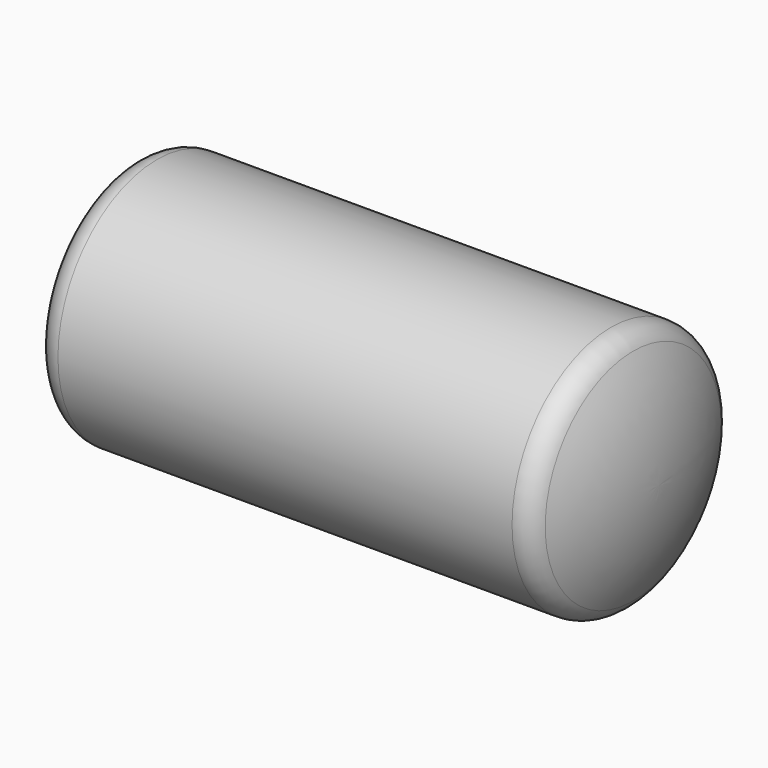
from build123d import *


with BuildPart() as f1:
    # F0 (on Top) → F1 (revolve)
    with BuildSketch(Plane.XY):
        with BuildLine():
            Line((0, 0), (0, 450))
            Line((0, 450), (-825.603197, 450))
            ThreePointArc((-825.603197, 450), (-873.037362, 436.485293), (-906.225775, 400))
            ThreePointArc((-906.225775, 400), (-976.242888, 205.422495), (-1000, 0))
            Line((-1000, 0), (0, 0))
        make_face()
    revolve(axis=Axis((70.014805, 0, 0), (-1, 0, 0)))

    # F2: F1 across face


with BuildPart() as f1_1:
    add(f1.part)
    add(f1.part.mirror(Plane.YZ))


solid = f1_1.part
